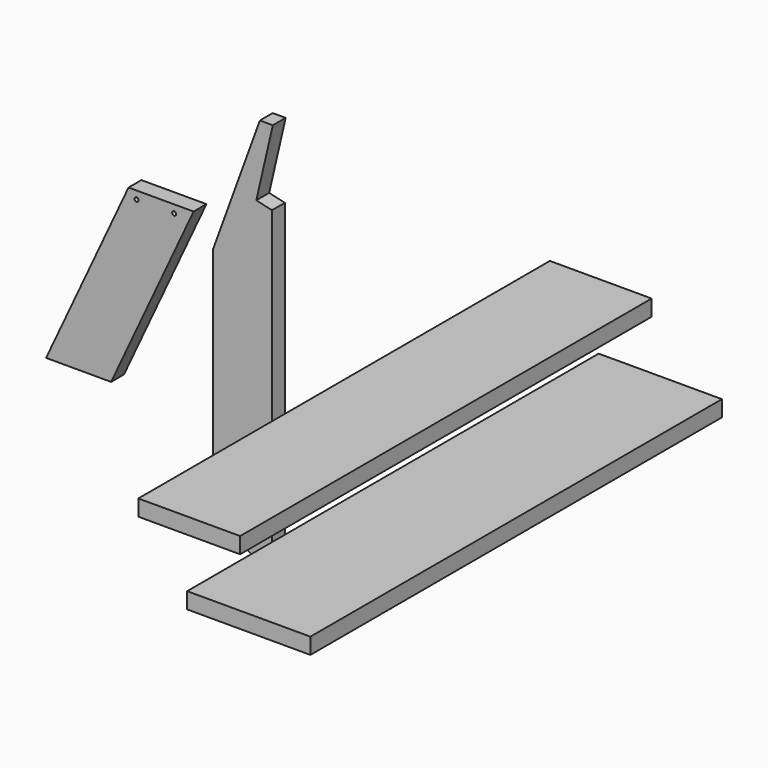
from build123d import *

# Parameters (mm, degrees)
F1_DEPTH = 38.1
F2_R     = 4.7625
F3_DEPTH = 38.1
F4_W     = 292.1
F4_H     = 1219.2
F5_DEPTH = 38.1
F6_W     = 241.3
F6_H     = 1219.2
F7_DEPTH = 38.1


with BuildPart() as f1:
    # F0 (on Front) → F1 (new body)
    with BuildSketch(Plane.XZ):
        Polygon((-123.112292, 464.215934), (-234.05042, 159.415934), (-234.05042, -394.928234), (-94.35042, -475.584066), (-94.35042, 286.415934), (-131.473919, 294.986569), (-92.404242, 464.215934), align=None)
    extrude(amount=F1_DEPTH)


with BuildPart() as f3:
    # F2 (on Front) → F3 (new body)
    with BuildSketch(Plane.XZ):
        Polygon((-280.185501, 223.178459), (-434.327396, 223.178459), (-629.756936, -195.921541), (-475.615041, -195.921541), align=None)
        with Locations((-415.277396, 204.128459)):
            Circle(F2_R, mode=Mode.SUBTRACT)
        with Locations((-326.377396, 204.128459)):
            Circle(F2_R, mode=Mode.SUBTRACT)
    extrude(amount=F3_DEPTH)


with BuildPart() as f5:
    # F4 (on Top) → F5 (new body)
    with BuildSketch(Plane.XY):
        with Locations((584.968776, -346.411801)):
            Rectangle(F4_W, F4_H)
    extrude(amount=F5_DEPTH)


with BuildPart() as f7:
    # F6 (on Top) → F7 (new body)
    with BuildSketch(Plane.XY):
        with Locations((256.873205, -112.702832)):
            Rectangle(F6_W, F6_H)
    extrude(amount=F7_DEPTH)


solid = Compound([f1.part, f3.part, f5.part, f7.part])
